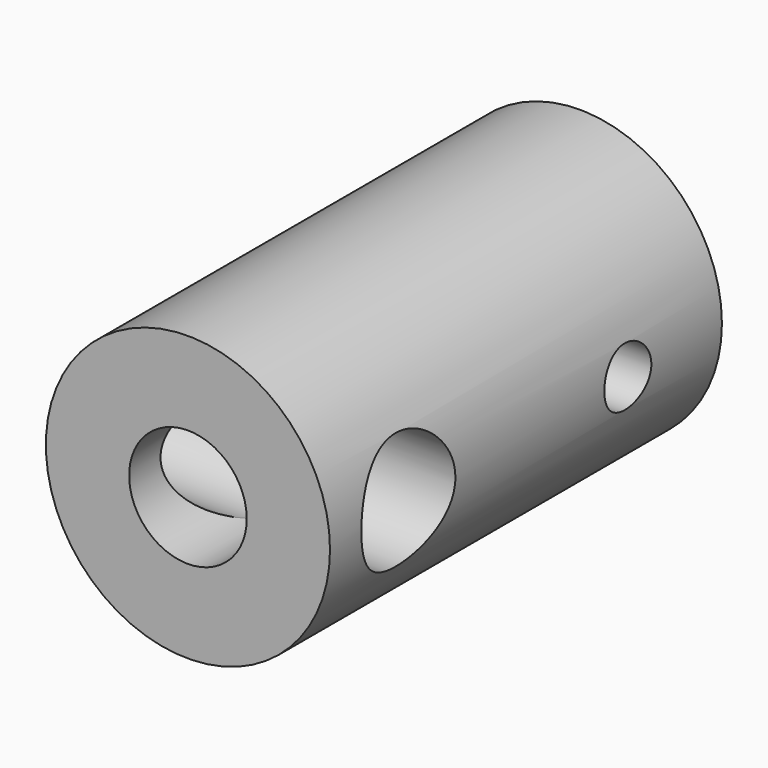
from build123d import *

# Parameters (mm, degrees)
F0_R          = 7.25
F0_R_2        = 3
F1_DEPTH      = 25
F2_R          = 3
F2_R_2        = 1.5
F3_DEPTH      = 7.251
F3_DEPTH_BACK = 7.251


with BuildPart() as f1:
    # F0 (on Front) → F1 (new body)
    with BuildSketch(Plane.XZ):
        Circle(F0_R)
        Circle(F0_R_2, mode=Mode.SUBTRACT)
    extrude(amount=F1_DEPTH)

    # F2 (on Right) → F3 (cut, two sides)
    with BuildSketch(Plane.YZ) as f3_sk:
        with Locations((-20, 0)):
            Circle(F2_R)
        with Locations((-6, 0)):
            Circle(F2_R_2)
    extrude(amount=F3_DEPTH, mode=Mode.SUBTRACT)
    extrude(f3_sk.sketch, amount=-F3_DEPTH_BACK, mode=Mode.SUBTRACT)


solid = f1.part
